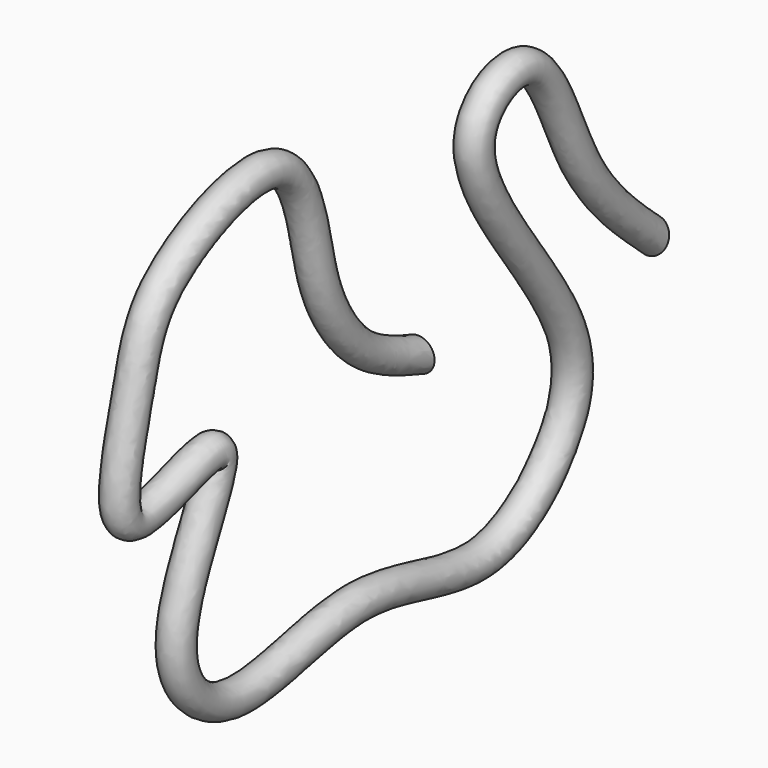
from build123d import *

# Parameters (mm, degrees)
F0_R     = 5
F3_R     = 10
F4_DEPTH = 25
F4_TAPER = 10


with BuildPart() as f2:
    # F2: sweep along a path in F1
    with BuildLine(Plane.YZ) as f2_path:
        add(Plane.YZ * Edge.make_bspline(
            [(0, 0), (-7.6165240802, 2.6599485646), (-23.1861909655, 8.0974043707), (-38.5775329873, 31.566384419), (-41.1944758828, 54.849689308), (-53.7559044778, 80.8133367015), (-102.3959795508, 59.9325957596), (-106.5981825989, 35.9841160419), (-121.7033910915, -14.1848971493), (-57.6932896412, 21.7400567294), (-103.6650128952, -39.5625785269), (-72.7819501835, -72.4180586089), (-22.7366627069, -48.1233570462), (24.1036452794, -72.3139713844), (55.8150476899, -46.5959496537), (64.5691143726, -12.8627088569), (4.4731727988, 47.0356703155), (45.6038134661, 70.6317373518), (58.631554024, 22.1409301859), (78.4891068788, 4.5989688625), (88.4879082441, -4.233871121)],
            knots=[0, 0, 0, 0, 0.0460282409, 0.0940907389, 0.1403589122, 0.1843057068, 0.2451849662, 0.295502285, 0.3488233574, 0.4023117398, 0.4652849311, 0.5182247294, 0.5847003601, 0.6497738304, 0.704111961, 0.7565880222, 0.8359073212, 0.879910756, 0.9395318997, 1, 1, 1, 1], degree=3))
    # F0 (on Front) → F2 (sweep)
    with BuildSketch(Plane.XZ):
        Circle(F0_R)
    sweep(path=f2_path.line)


with BuildPart() as f4:
    # F3 (on face) → F4 (new body)
    with BuildSketch(Plane(origin=(0, 77.3299024625, -31.567384028), x_dir=(-1, 0, 0), z_dir=(0, 0.9258302232, -0.3779396749))):
        with Locations((0, 29.5232454324)):
            Circle(F3_R)
        with BuildLine():
            add(Edge.make_bspline(
                [(-5, 29.5232454324), (-5, 21.2155300545), (5.2727409527, 20.0226835161), (13.745584605, 29.5232454324), (5.2727409527, 39.0238073486), (-5, 37.8309608102), (-5, 29.5232454324)],
                knots=[0, 0, 0, 0, 0, 0, 0, 6.2831853072, 6.2831853072, 6.2831853072, 6.2831853072, 6.2831853072, 6.2831853072, 6.2831853072], degree=6, weights=[1.6690784611, 1.0367296232, 1.0383466998, 0.8535343302, 1.0383466998, 1.0367296232, 1.6690784611]))
        make_face(mode=Mode.SUBTRACT)
    extrude(amount=F4_DEPTH, taper=F4_TAPER)


solid = f2.part
